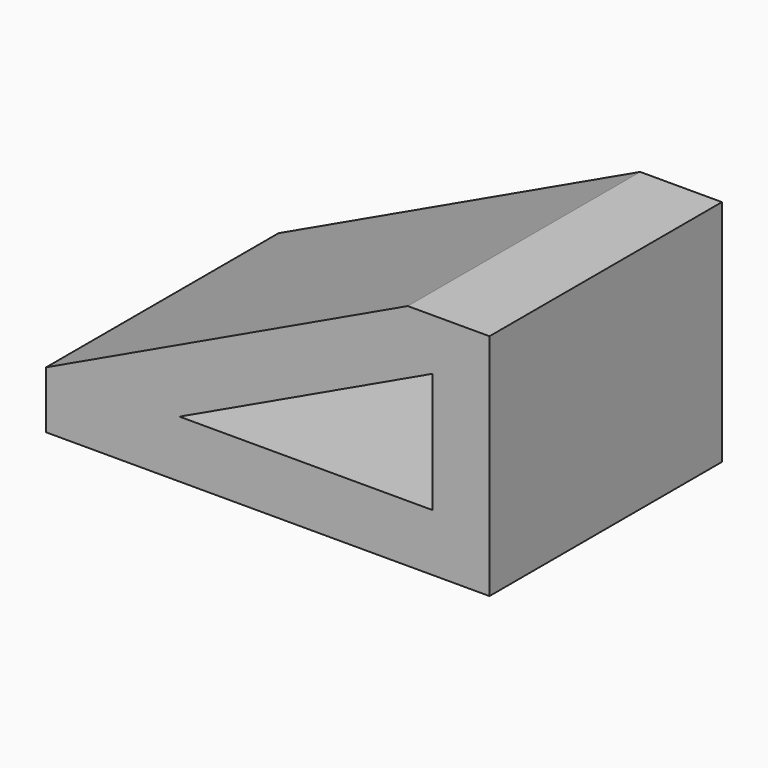
from build123d import *

# Parameters (mm, degrees)
F1_DEPTH = 25.4


with BuildPart() as f1:
    # F0 (on Front) → F1 (new body)
    with BuildSketch(Plane.XZ):
        Polygon((-17.32125, 24.4354), (-15.178393, 19.917861), (-15.178393, 9.4354), (-10.178393, 4.4354), (-10.178393, 9.4354), (-10.178393, 24.4354), align=None)
        Polygon((-37.27736, 9.4354), (-15.178393, 19.917861), (-17.32125, 24.4354), (-48.944026, 9.4354), align=None)
        Polygon((-15.178393, 9.4354), (-37.27736, 9.4354), (-48.944026, 9.4354), (-48.944026, 4.4354), (-10.178393, 4.4354), align=None)
    extrude(amount=F1_DEPTH)


solid = f1.part
